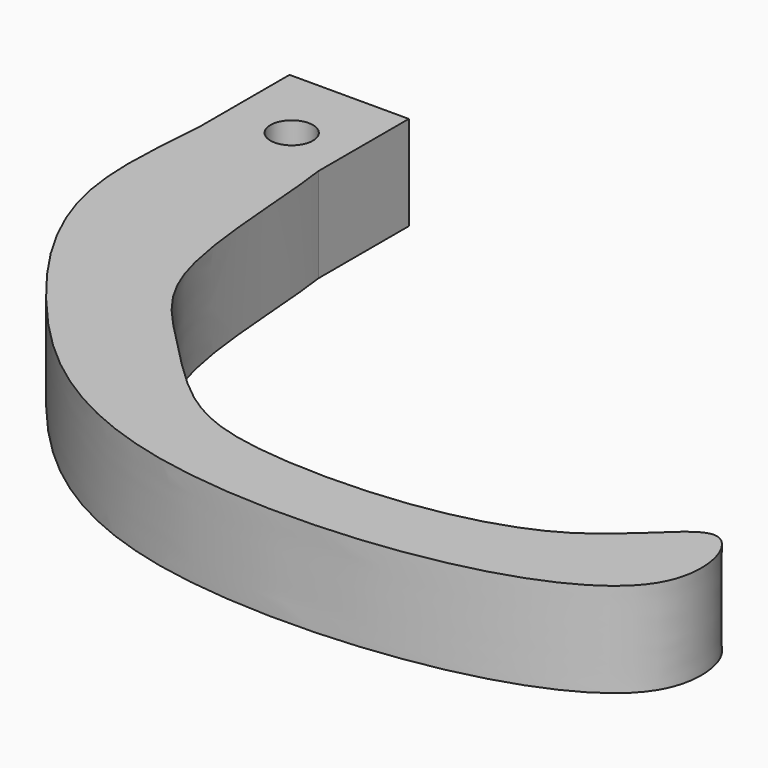
from build123d import *

# Parameters (mm, degrees)
F0_W     = 12.6312362875
F0_H     = 11.9570397706
F1_DEPTH = 10
F3_D     = 4.4958


with BuildPart() as f1:
    # F0 (on Top) → F1 (new body)
    with BuildSketch(Plane.XY):
        with Locations((-18.6553156512, 23.9227983668)):
            Rectangle(F0_W, F0_H)
        with BuildLine():
            Line((-12.3396975074, 17.9442784815), (-24.970933795, 17.9442784815))
            add(Edge.make_bspline(
                [(-24.970933795, 17.9442784815), (-25.1371291893, 14.5201641041), (-26.9486293796, 2.2362853478), (-15.3757309811, -16.0309344014), (6.7599933476, -36.3026863179), (61.4440225817, -29.1689321437), (54.585857408, -7.5587452256), (45.0349249128, -23.9584677848), (15.9639871325, -25.340930977), (5.2066637171, -21.3406746899), (-2.8370266591, -12.5850754048), (-11.5344699711, -4.3935021743), (-11.4689410184, 12.0239981701), (-12.3396975074, 17.9442784815)],
                knots=[0, 0, 0, 0, 0.0800004633, 0.1758030232, 0.2926269433, 0.4354752681, 0.5011115477, 0.5754020355, 0.6881215848, 0.7597248342, 0.8296733911, 0.9020545209, 1, 1, 1, 1], degree=3))
        make_face()
    extrude(amount=F1_DEPTH)

    # F3 (through all)
    with Locations(Plane.XY.offset(10)):
        with Locations((-18.3396975074, 21.9013182521)):
            Hole(F3_D / 2)


solid = f1.part
